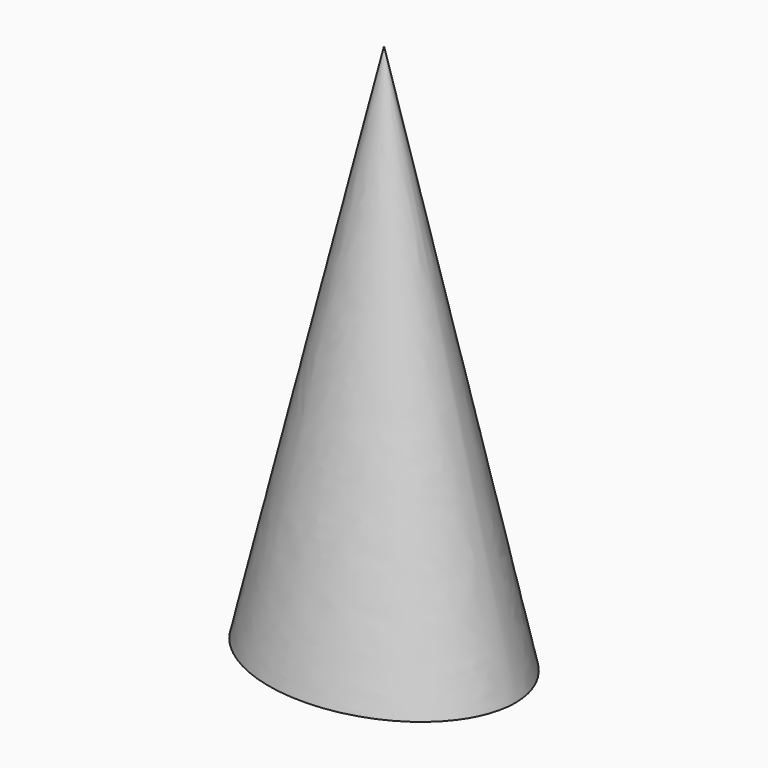
from build123d import *


with BuildPart() as f3:
    # F0 (on Top) → F3 section 0
    with BuildSketch(Plane.XY, mode=Mode.PRIVATE) as f3_s0:
        with BuildLine():
            add(Edge.make_bspline(
                [(342.9, 0), (342.9, 461.93795), (-171.45, 230.968975), (-685.8, 0), (-171.45, -230.968975), (342.9, -461.93795), (342.9, 0)],
                knots=[0, 0, 0, 2.094395, 2.094395, 4.18879, 4.18879, 6.283185, 6.283185, 6.283185], degree=2, weights=[1, 0.5, 1, 0.5, 1, 0.5, 1]))
        make_face()
    loft([f3_s0.sketch, Vertex(0, 0, 1397)])


solid = f3.part
